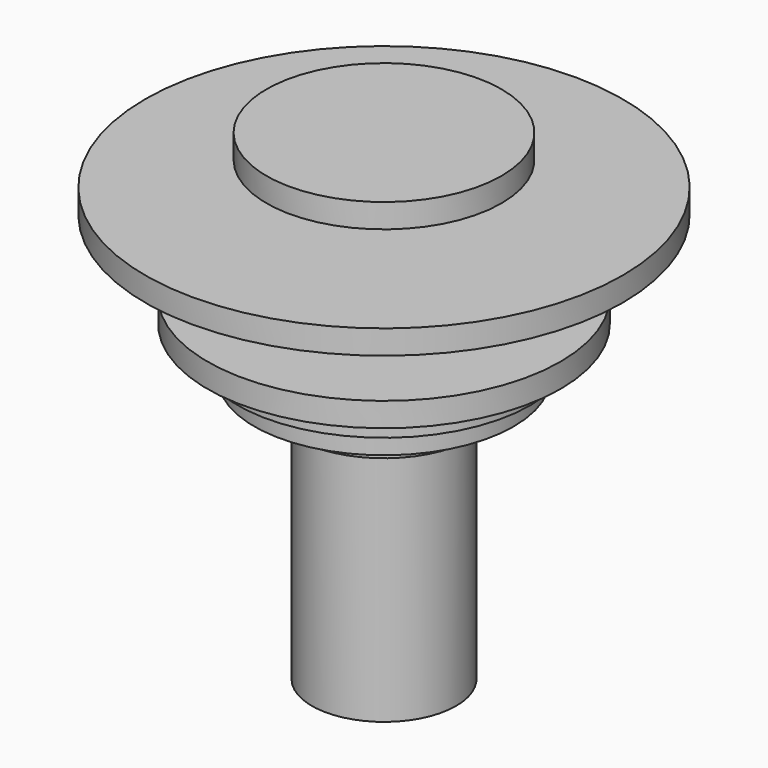
from build123d import *

# Parameters (mm, degrees)
F0_W   = 31.004638
F0_H   = 12.7
F0_W_2 = 30.896892
F0_W_3 = 38.1
F0_H_2 = 127


with BuildPart() as f1:
    # F0 (on Front) → F1 (revolve)
    with BuildSketch(Plane.XZ):
        Polygon((62.009277, 10.399587), (0, 10.399587), (0, -2.300413), (31.004638, -2.300413), (62.009277, -2.300413), align=None)
        with Locations((15.502319, -8.650413)):
            Rectangle(F0_W, F0_H)
        Polygon((31.004638, -15.000413), (0, -15.000413), (0, -27.700413), (98.40488, -27.700413), (125.995113, -27.700413), (125.995113, -15.000413), align=None)
        Polygon((98.40488, -27.700413), (0, -27.700413), (0, -40.400413), (30.896892, -40.400413), (98.40488, -40.400413), align=None)
        with Locations((15.448446, -46.750413)):
            Rectangle(F0_W_2, F0_H)
        Polygon((30.896892, -53.100413), (0, -53.100413), (0, -65.800413), (37.941203, -65.800413), (37.941203, -53.100413), align=None)
        Polygon((37.941203, -65.800413), (0, -65.800413), (0, -78.500413), (77.271949, -78.500413), (93.121649, -78.500413), (93.121649, -65.800413), align=None)
        Polygon((77.271949, -78.500413), (0, -78.500413), (0, -91.200413), (68.466559, -91.200413), (77.271949, -91.200413), align=None)
        Polygon((68.466559, -91.200413), (0, -91.200413), (0, -103.900413), (46.746592, -103.900413), (68.466559, -103.900413), align=None)
        Polygon((46.746592, -103.900413), (0, -103.900413), (0, -116.600413), (38.1, -116.600413), (46.746592, -116.600413), align=None)
        with Locations((19.05, -180.100413)):
            Rectangle(F0_W_3, F0_H_2)
    revolve(axis=Axis((0, 0, -180.100413), (0, 0, -1)))


solid = f1.part
